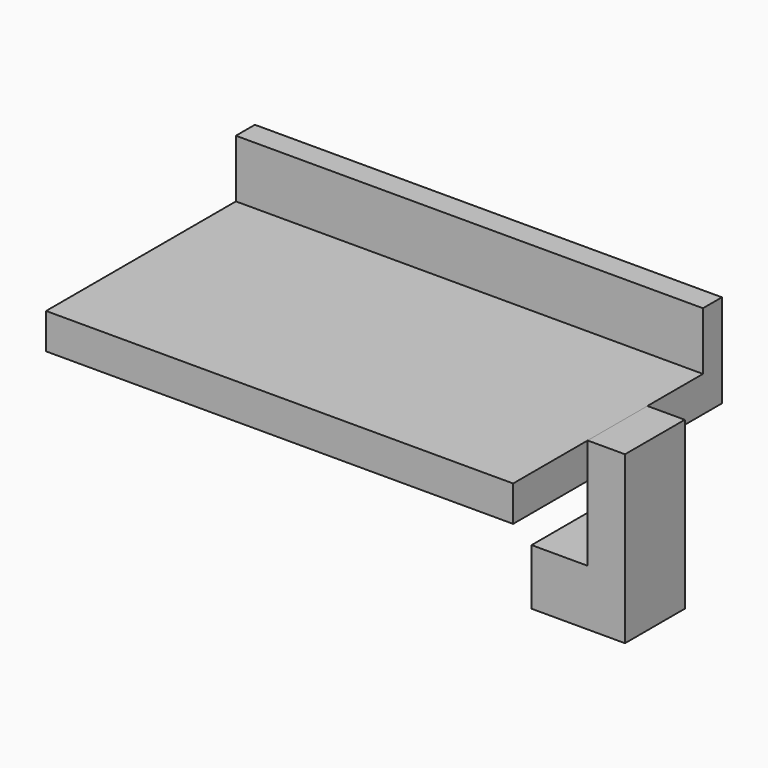
from build123d import *

# Parameters (mm, degrees)
F0_W     = 25
F0_H     = 12.7
F1_DEPTH = 1.905
F0_H_2   = 1.27
F2_DEPTH = 5
F4_START = 12.5
F3_W     = 4
F3_H     = 1.905
F3_H_2   = 4
F4_DEPTH = 2
F5_START = 9.5
F3_H_3   = 3
F5_DEPTH = 5


with BuildPart() as f1:
    # F0 (on Top) → F1 (new body)
    with BuildSketch(Plane.XY):
        with Locations((0, -0.635)):
            Rectangle(F0_W, F0_H)
    extrude(amount=F1_DEPTH)

    # F0 (on Top) → F2 (join)
    with BuildSketch(Plane.XY):
        with Locations((0, 6.35)):
            Rectangle(F0_W, F0_H_2)
    extrude(amount=F2_DEPTH)


with BuildPart() as f4:
    # F3 (on Right) → F4 (new body)
    with BuildSketch(Plane.YZ.offset(F4_START)):
        with Locations((0, 0.9525)):
            Rectangle(F3_W, F3_H)
        with Locations((0, -2)):
            Rectangle(F3_W, F3_H_2)
    extrude(amount=F4_DEPTH)

    # F3 (on Right) → F5 (join)
    with BuildSketch(Plane.YZ.offset(F5_START)):
        with Locations((0, -5.5)):
            Rectangle(F3_W, F3_H_3)
    extrude(amount=F5_DEPTH)


solid = Compound([f1.part, f4.part])
